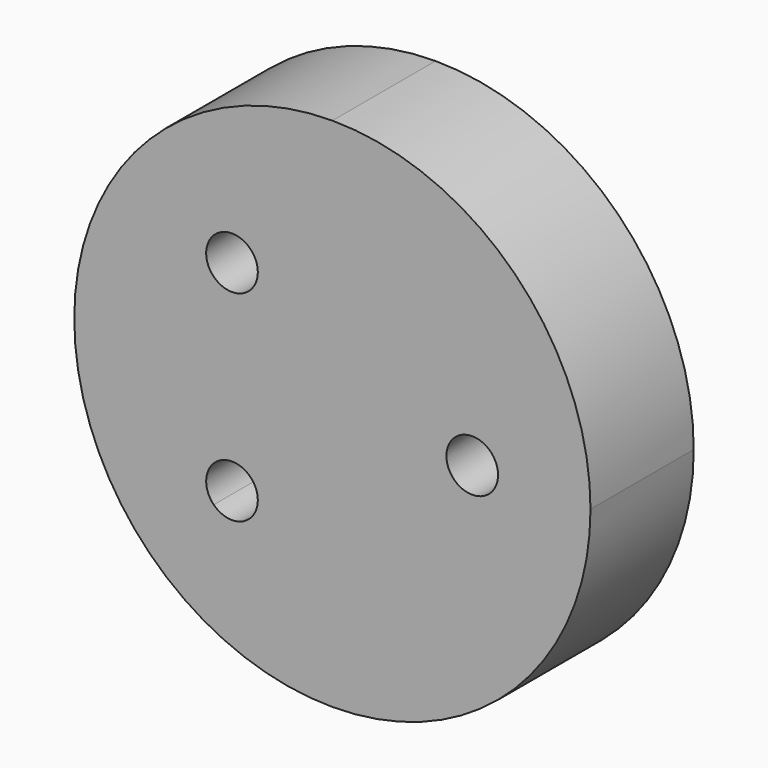
from build123d import *

# Parameters (mm, degrees)
F1_DEPTH = 6.35
F2_DEPTH = 3.175


with BuildPart() as f1:
    # F0 (on Front) → F1 (new body)
    with BuildSketch(Plane.XZ):
        with BuildLine():
            Line((10.0563413382, 0), (12.7, 0))
            ThreePointArc((12.7, 0), (8.9802561211, 8.9802561211), (0, 12.7))
            Line((0, 12.7), (0, 0))
            Line((0, 0), (3.7063413382, 0))
            ThreePointArc((3.7063413382, 0), (6.8813413382, 3.175), (10.0563413382, 0))
        make_face()
        with BuildLine():
            ThreePointArc((0, -12.7), (8.9802561211, -8.9802561211), (12.7, 0))
            Line((12.7, 0), (10.0563413382, 0))
            ThreePointArc((10.0563413382, 0), (6.8813413382, -3.175), (3.7063413382, 0))
            Line((3.7063413382, 0), (0, 0))
            Line((0, 0), (0, -12.7))
        make_face()
        with BuildLine():
            Line((-4.6036354889, 8.0963645111), (0, 12.7))
            ThreePointArc((0, 12.7), (-8.9802561211, 8.9802561211), (-12.7, 0))
            Line((-12.7, 0), (-8.0963645111, 4.6036354889))
            ThreePointArc((-8.0963645111, 4.6036354889), (-7.1842048969, 7.1842048969), (-4.6036354889, 8.0963645111))
        make_face()
        with BuildLine():
            Line((0, 0), (0, 12.7))
            Line((0, 12.7), (-4.6036354889, 8.0963645111))
            ThreePointArc((-4.6036354889, 8.0963645111), (-2.5784360381, 7.0622748032), (-1.7641408666, 4.9391408666))
            ThreePointArc((-1.7641408666, 4.9391408666), (-2.0058233509, 3.7241209688), (-2.6940768363, 2.6940768363))
            Line((-2.6940768363, 2.6940768363), (0, 0))
        make_face()
        with BuildLine():
            Line((-4.6036354889, -8.0963645111), (0, -12.7))
            Line((0, -12.7), (0, 0))
            Line((0, 0), (-2.6940768363, -2.6940768363))
            ThreePointArc((-2.6940768363, -2.6940768363), (-2.0058233509, -3.7241209688), (-1.7641408666, -4.9391408666))
            ThreePointArc((-1.7641408666, -4.9391408666), (-2.5784360381, -7.0622748032), (-4.6036354889, -8.0963645111))
        make_face()
        with BuildLine():
            ThreePointArc((-12.7, 0), (-8.9802561211, -8.9802561211), (0, -12.7))
            Line((0, -12.7), (-4.6036354889, -8.0963645111))
            ThreePointArc((-4.6036354889, -8.0963645111), (-7.1842048969, -7.1842048969), (-8.0963645111, -4.6036354889))
            Line((-8.0963645111, -4.6036354889), (-12.7, 0))
        make_face()
        with BuildLine():
            Line((-8.0963645111, 4.6036354889), (-12.7, 0))
            Line((-12.7, 0), (0, 0))
            Line((0, 0), (-2.6940768363, 2.6940768363))
            ThreePointArc((-2.6940768363, 2.6940768363), (-5.9972582289, 1.945645811), (-8.0963645111, 4.6036354889))
        make_face()
        with BuildLine():
            Line((0, 0), (-12.7, 0))
            Line((-12.7, 0), (-8.0963645111, -4.6036354889))
            ThreePointArc((-8.0963645111, -4.6036354889), (-5.9972582289, -1.945645811), (-2.6940768363, -2.6940768363))
            Line((-2.6940768363, -2.6940768363), (0, 0))
        make_face()
        with BuildLine():
            Line((-6.35, 6.35), (-8.0963645111, 4.6036354889))
            ThreePointArc((-8.0963645111, 4.6036354889), (-5.9972582289, 1.945645811), (-2.6940768363, 2.6940768363))
            Line((-2.6940768363, 2.6940768363), (-4.0411152545, 4.0411152545))
            ThreePointArc((-4.0411152545, 4.0411152545), (-5.8371664787, 4.0411152545), (-5.8371664787, 5.8371664787))
            Line((-5.8371664787, 5.8371664787), (-6.35, 6.35))
        make_face()
        with BuildLine():
            ThreePointArc((-1.7641408666, 4.9391408666), (-2.5784360381, 7.0622748032), (-4.6036354889, 8.0963645111))
            Line((-4.6036354889, 8.0963645111), (-6.35, 6.35))
            Line((-6.35, 6.35), (-5.8371664787, 5.8371664787))
            ThreePointArc((-5.8371664787, 5.8371664787), (-4.4531329075, 6.1124678729), (-3.6691408666, 4.9391408666))
            ThreePointArc((-3.6691408666, 4.9391408666), (-3.7658138603, 4.4531329075), (-4.0411152545, 4.0411152545))
            Line((-4.0411152545, 4.0411152545), (-2.6940768363, 2.6940768363))
            ThreePointArc((-2.6940768363, 2.6940768363), (-2.0058233509, 3.7241209688), (-1.7641408666, 4.9391408666))
        make_face()
        with BuildLine():
            Line((-6.35, 6.35), (-4.6036354889, 8.0963645111))
            ThreePointArc((-4.6036354889, 8.0963645111), (-7.1842048969, 7.1842048969), (-8.0963645111, 4.6036354889))
            Line((-8.0963645111, 4.6036354889), (-6.35, 6.35))
        make_face()
        with BuildLine():
            Line((8.1513413382, 0), (10.0563413382, 0))
            ThreePointArc((10.0563413382, 0), (6.8813413382, 3.175), (3.7063413382, 0))
            Line((3.7063413382, 0), (5.6113413382, 0))
            ThreePointArc((5.6113413382, 0), (6.8813413382, 1.27), (8.1513413382, 0))
        make_face()
        with BuildLine():
            ThreePointArc((3.7063413382, 0), (6.8813413382, -3.175), (10.0563413382, 0))
            Line((10.0563413382, 0), (8.1513413382, 0))
            ThreePointArc((8.1513413382, 0), (6.8813413382, -1.27), (5.6113413382, 0))
            Line((5.6113413382, 0), (3.7063413382, 0))
        make_face()
        with BuildLine():
            Line((-6.35, -6.35), (-4.6036354889, -8.0963645111))
            ThreePointArc((-4.6036354889, -8.0963645111), (-2.5784360381, -7.0622748032), (-1.7641408666, -4.9391408666))
            ThreePointArc((-1.7641408666, -4.9391408666), (-2.0058233509, -3.7241209688), (-2.6940768363, -2.6940768363))
            Line((-2.6940768363, -2.6940768363), (-4.0411152545, -4.0411152545))
            ThreePointArc((-4.0411152545, -4.0411152545), (-3.7658138603, -4.4531329075), (-3.6691408666, -4.9391408666))
            ThreePointArc((-3.6691408666, -4.9391408666), (-4.4531329075, -6.1124678729), (-5.8371664787, -5.8371664787))
            Line((-5.8371664787, -5.8371664787), (-6.35, -6.35))
        make_face()
        with BuildLine():
            ThreePointArc((-2.6940768363, -2.6940768363), (-5.9972582289, -1.945645811), (-8.0963645111, -4.6036354889))
            Line((-8.0963645111, -4.6036354889), (-6.35, -6.35))
            Line((-6.35, -6.35), (-5.8371664787, -5.8371664787))
            ThreePointArc((-5.8371664787, -5.8371664787), (-5.8371664787, -4.0411152545), (-4.0411152545, -4.0411152545))
            Line((-4.0411152545, -4.0411152545), (-2.6940768363, -2.6940768363))
        make_face()
        with BuildLine():
            ThreePointArc((-8.0963645111, -4.6036354889), (-7.1842048969, -7.1842048969), (-4.6036354889, -8.0963645111))
            Line((-4.6036354889, -8.0963645111), (-6.35, -6.35))
            Line((-6.35, -6.35), (-8.0963645111, -4.6036354889))
        make_face()
    extrude(amount=F1_DEPTH)

    # F0 (on Front) → F2 (cut)
    with BuildSketch(Plane.XZ):
        with BuildLine():
            Line((-6.35, 6.35), (-8.0963645111, 4.6036354889))
            ThreePointArc((-8.0963645111, 4.6036354889), (-5.9972582289, 1.945645811), (-2.6940768363, 2.6940768363))
            Line((-2.6940768363, 2.6940768363), (-4.0411152545, 4.0411152545))
            ThreePointArc((-4.0411152545, 4.0411152545), (-5.8371664787, 4.0411152545), (-5.8371664787, 5.8371664787))
            Line((-5.8371664787, 5.8371664787), (-6.35, 6.35))
        make_face()
        with BuildLine():
            Line((-6.35, 6.35), (-4.6036354889, 8.0963645111))
            ThreePointArc((-4.6036354889, 8.0963645111), (-7.1842048969, 7.1842048969), (-8.0963645111, 4.6036354889))
            Line((-8.0963645111, 4.6036354889), (-6.35, 6.35))
        make_face()
        with BuildLine():
            ThreePointArc((-1.7641408666, 4.9391408666), (-2.5784360381, 7.0622748032), (-4.6036354889, 8.0963645111))
            Line((-4.6036354889, 8.0963645111), (-6.35, 6.35))
            Line((-6.35, 6.35), (-5.8371664787, 5.8371664787))
            ThreePointArc((-5.8371664787, 5.8371664787), (-4.4531329075, 6.1124678729), (-3.6691408666, 4.9391408666))
            ThreePointArc((-3.6691408666, 4.9391408666), (-3.7658138603, 4.4531329075), (-4.0411152545, 4.0411152545))
            Line((-4.0411152545, 4.0411152545), (-2.6940768363, 2.6940768363))
            ThreePointArc((-2.6940768363, 2.6940768363), (-2.0058233509, 3.7241209688), (-1.7641408666, 4.9391408666))
        make_face()
        with BuildLine():
            ThreePointArc((-2.6940768363, -2.6940768363), (-5.9972582289, -1.945645811), (-8.0963645111, -4.6036354889))
            Line((-8.0963645111, -4.6036354889), (-6.35, -6.35))
            Line((-6.35, -6.35), (-5.8371664787, -5.8371664787))
            ThreePointArc((-5.8371664787, -5.8371664787), (-5.8371664787, -4.0411152545), (-4.0411152545, -4.0411152545))
            Line((-4.0411152545, -4.0411152545), (-2.6940768363, -2.6940768363))
        make_face()
        with BuildLine():
            Line((-6.35, -6.35), (-4.6036354889, -8.0963645111))
            ThreePointArc((-4.6036354889, -8.0963645111), (-2.5784360381, -7.0622748032), (-1.7641408666, -4.9391408666))
            ThreePointArc((-1.7641408666, -4.9391408666), (-2.0058233509, -3.7241209688), (-2.6940768363, -2.6940768363))
            Line((-2.6940768363, -2.6940768363), (-4.0411152545, -4.0411152545))
            ThreePointArc((-4.0411152545, -4.0411152545), (-3.7658138603, -4.4531329075), (-3.6691408666, -4.9391408666))
            ThreePointArc((-3.6691408666, -4.9391408666), (-4.4531329075, -6.1124678729), (-5.8371664787, -5.8371664787))
            Line((-5.8371664787, -5.8371664787), (-6.35, -6.35))
        make_face()
        with BuildLine():
            ThreePointArc((-8.0963645111, -4.6036354889), (-7.1842048969, -7.1842048969), (-4.6036354889, -8.0963645111))
            Line((-4.6036354889, -8.0963645111), (-6.35, -6.35))
            Line((-6.35, -6.35), (-8.0963645111, -4.6036354889))
        make_face()
        with BuildLine():
            ThreePointArc((3.7063413382, 0), (6.8813413382, -3.175), (10.0563413382, 0))
            Line((10.0563413382, 0), (8.1513413382, 0))
            ThreePointArc((8.1513413382, 0), (6.8813413382, -1.27), (5.6113413382, 0))
            Line((5.6113413382, 0), (3.7063413382, 0))
        make_face()
        with BuildLine():
            Line((8.1513413382, 0), (10.0563413382, 0))
            ThreePointArc((10.0563413382, 0), (6.8813413382, 3.175), (3.7063413382, 0))
            Line((3.7063413382, 0), (5.6113413382, 0))
            ThreePointArc((5.6113413382, 0), (6.8813413382, 1.27), (8.1513413382, 0))
        make_face()
    extrude(amount=F2_DEPTH, mode=Mode.SUBTRACT)


solid = f1.part
